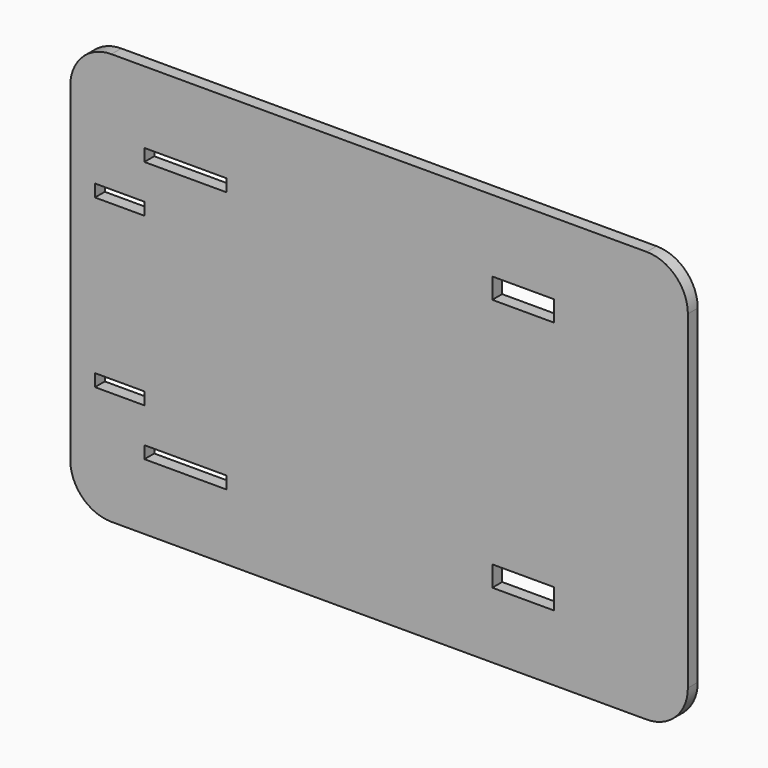
from build123d import *

# Parameters (mm, degrees)
F0_W     = 20
F0_H     = 3
F0_W_2   = 12
F0_W_3   = 15
F0_H_2   = 5
F1_DEPTH = 3


with BuildPart() as f1:
    # F0 (on Front) → F1 (new body)
    with BuildSketch(Plane.XZ):
        with BuildLine():
            ThreePointArc((-65.278672, 50.72488), (-72.34974, 47.795947), (-75.278672, 40.72488))
            Line((-75.278672, 40.72488), (-75.278672, -39.27512))
            ThreePointArc((-75.278672, -39.27512), (-72.34974, -46.346188), (-65.278672, -49.27512))
            Line((-65.278672, -49.27512), (64.721328, -49.27512))
            ThreePointArc((64.721328, -49.27512), (71.792395, -46.346188), (74.721328, -39.27512))
            Line((74.721328, -39.27512), (74.721328, 40.72488))
            ThreePointArc((74.721328, 40.72488), (71.792395, 47.795947), (64.721328, 50.72488))
            Line((64.721328, 50.72488), (-65.278672, 50.72488))
        make_face()
        with Locations((-47.278672, -31.77512)):
            Rectangle(F0_W, F0_H, mode=Mode.SUBTRACT)
        with Locations((-63.278672, -20.27512)):
            Rectangle(F0_W_2, F0_H, mode=Mode.SUBTRACT)
        with Locations((34.721328, -30.77512)):
            Rectangle(F0_W_3, F0_H_2, mode=Mode.SUBTRACT)
        with Locations((-63.278672, 20.27512)):
            Rectangle(F0_W_2, F0_H, mode=Mode.SUBTRACT)
        with Locations((-47.278672, 31.77512)):
            Rectangle(F0_W, F0_H, mode=Mode.SUBTRACT)
        with Locations((34.721328, 30.77512)):
            Rectangle(F0_W_3, F0_H_2, mode=Mode.SUBTRACT)
    extrude(amount=F1_DEPTH)


solid = f1.part
